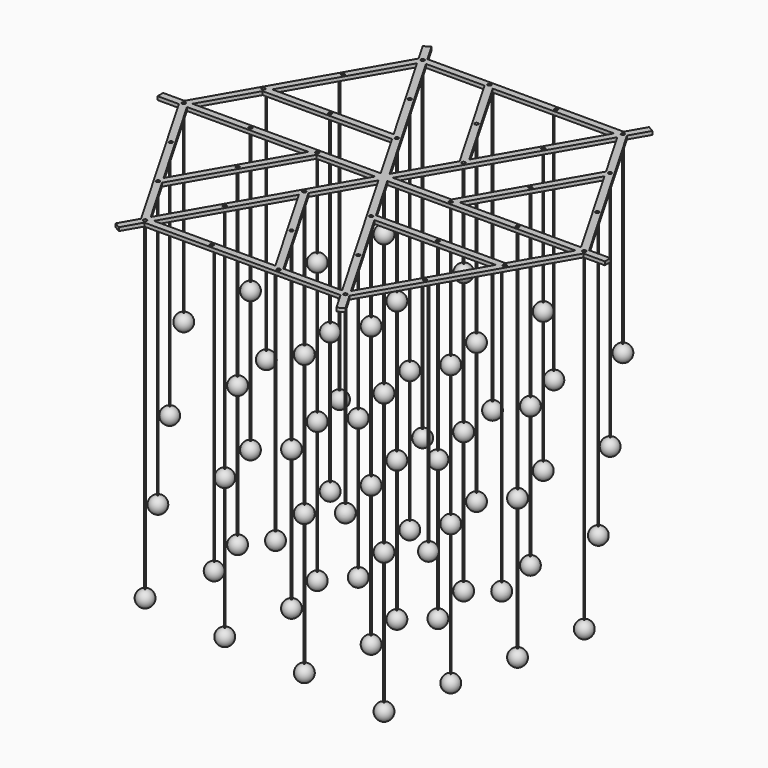
from build123d import *

# Parameters (mm, degrees)
CYLINDER_R               = 3
CYLINDER_DEPTH           = 2000
CYLINDER002_R            = 3
CYLINDER002_DEPTH        = 1800
GROUP005_PLACEMENT_ANGLE = 120
CYLINDER003_R            = 3
CYLINDER003_DEPTH        = 1800
GROUP007_PLACEMENT_ANGLE = 240
CYLINDER001_R            = 3
CYLINDER001_DEPTH        = 1800
CYLINDER005_R            = 3
CYLINDER005_DEPTH        = 1600
GROUP012_PLACEMENT_ANGLE = 180
CYLINDER006_R            = 3
CYLINDER006_DEPTH        = 1600
GROUP014_PLACEMENT_ANGLE = 60
CYLINDER004_R            = 3
CYLINDER004_DEPTH        = 1600
GROUP010_PLACEMENT_ANGLE = 60
CYLINDER008_R            = 3
CYLINDER008_DEPTH        = 1610
GROUP019_PLACEMENT_ANGLE = 120
CYLINDER009_R            = 3
CYLINDER009_DEPTH        = 1610
GROUP021_PLACEMENT_ANGLE = 240
CYLINDER007_R            = 3
CYLINDER007_DEPTH        = 1610
CYLINDER011_R            = 3
CYLINDER011_DEPTH        = 1200
GROUP026_PLACEMENT_ANGLE = 180
CYLINDER012_R            = 3
CYLINDER012_DEPTH        = 1200
GROUP028_PLACEMENT_ANGLE = 60
CYLINDER010_R            = 3
CYLINDER010_DEPTH        = 1200
GROUP024_PLACEMENT_ANGLE = 60
CYLINDER014_R            = 3
CYLINDER014_DEPTH        = 1410
GROUP033_PLACEMENT_ANGLE = 90
CYLINDER015_R            = 3
CYLINDER015_DEPTH        = 1410
GROUP035_PLACEMENT_ANGLE = 150
CYLINDER016_R            = 3
CYLINDER016_DEPTH        = 1410
GROUP037_PLACEMENT_ANGLE = 210
CYLINDER017_R            = 3
CYLINDER017_DEPTH        = 1410
GROUP039_PLACEMENT_ANGLE = 90
CYLINDER018_R            = 3
CYLINDER018_DEPTH        = 1410
GROUP041_PLACEMENT_ANGLE = 30
CYLINDER013_R            = 3
CYLINDER013_DEPTH        = 1410
GROUP031_PLACEMENT_ANGLE = 30
CYLINDER026_R            = 3
CYLINDER026_DEPTH        = 1210
GROUP051_PLACEMENT_ANGLE = 140
CYLINDER027_R            = 3
CYLINDER027_DEPTH        = 1010
GROUP052_PLACEMENT_ANGLE = 160
CYLINDER028_R            = 3
CYLINDER028_DEPTH        = 810
GROUP053_PLACEMENT_ANGLE = 180
CYLINDER029_R            = 3
CYLINDER029_DEPTH        = 1010
GROUP054_PLACEMENT_ANGLE = 200
CYLINDER030_R            = 3
CYLINDER030_DEPTH        = 1210
GROUP055_PLACEMENT_ANGLE = 220
CYLINDER025_R            = 3
CYLINDER025_DEPTH        = 1410
GROUP050_PLACEMENT_ANGLE = 120
CYLINDER032_R            = 3
CYLINDER032_DEPTH        = 1210
GROUP058_PLACEMENT_ANGLE = 100
CYLINDER033_R            = 3
CYLINDER033_DEPTH        = 1010
GROUP059_PLACEMENT_ANGLE = 80
CYLINDER034_R            = 3
CYLINDER034_DEPTH        = 810
GROUP060_PLACEMENT_ANGLE = 60
CYLINDER035_R            = 3
CYLINDER035_DEPTH        = 1010
GROUP061_PLACEMENT_ANGLE = 40
CYLINDER036_R            = 3
CYLINDER036_DEPTH        = 1210
GROUP062_PLACEMENT_ANGLE = 20
CYLINDER031_R            = 3
CYLINDER031_DEPTH        = 1410
GROUP057_PLACEMENT_ANGLE = 240
CYLINDER020_R            = 3
CYLINDER020_DEPTH        = 1210
GROUP044_PLACEMENT_ANGLE = 20
CYLINDER021_R            = 3
CYLINDER021_DEPTH        = 1010
GROUP045_PLACEMENT_ANGLE = 40
CYLINDER022_R            = 3
CYLINDER022_DEPTH        = 810
GROUP046_PLACEMENT_ANGLE = 60
CYLINDER023_R            = 3
CYLINDER023_DEPTH        = 1010
GROUP047_PLACEMENT_ANGLE = 80
CYLINDER024_R            = 3
CYLINDER024_DEPTH        = 1210
GROUP048_PLACEMENT_ANGLE = 100
CYLINDER019_R            = 3
CYLINDER019_DEPTH        = 1410
CUBE004_W                = 858
CUBE004_H                = 30
CUBE004_DEPTH            = 15
CUBE004_PLACEMENT_ANGLE  = 120
CUBE005_W                = 572
CUBE005_H                = 30
CUBE005_DEPTH            = 15
CUBE005_PLACEMENT_ANGLE  = 60
CUBE003_W                = 958
CUBE003_H                = 30
CUBE003_DEPTH            = 15
GROUP066_PLACEMENT_ANGLE = 60
CUBE007_W                = 858
CUBE007_H                = 30
CUBE007_DEPTH            = 15
CUBE007_PLACEMENT_ANGLE  = 120
CUBE008_W                = 572
CUBE008_H                = 30
CUBE008_DEPTH            = 15
CUBE008_PLACEMENT_ANGLE  = 60
CUBE006_W                = 958
CUBE006_H                = 30
CUBE006_DEPTH            = 15
GROUP067_PLACEMENT_ANGLE = 120
CUBE010_W                = 858
CUBE010_H                = 30
CUBE010_DEPTH            = 15
CUBE010_PLACEMENT_ANGLE  = 120
CUBE011_W                = 572
CUBE011_H                = 30
CUBE011_DEPTH            = 15
CUBE011_PLACEMENT_ANGLE  = 60
CUBE009_W                = 958
CUBE009_H                = 30
CUBE009_DEPTH            = 15
GROUP068_PLACEMENT_ANGLE = 180
CUBE013_W                = 858
CUBE013_H                = 30
CUBE013_DEPTH            = 15
CUBE013_PLACEMENT_ANGLE  = 120
CUBE014_W                = 572
CUBE014_H                = 30
CUBE014_DEPTH            = 15
CUBE014_PLACEMENT_ANGLE  = 60
CUBE012_W                = 958
CUBE012_H                = 30
CUBE012_DEPTH            = 15
GROUP069_PLACEMENT_ANGLE = 240
CUBE016_W                = 858
CUBE016_H                = 30
CUBE016_DEPTH            = 15
CUBE016_PLACEMENT_ANGLE  = 120
CUBE017_W                = 572
CUBE017_H                = 30
CUBE017_DEPTH            = 15
CUBE017_PLACEMENT_ANGLE  = 60
CUBE015_W                = 958
CUBE015_H                = 30
CUBE015_DEPTH            = 15
GROUP070_PLACEMENT_ANGLE = 60
CUBE001_W                = 858
CUBE001_H                = 30
CUBE001_DEPTH            = 15
CUBE001_PLACEMENT_ANGLE  = 120
CUBE002_W                = 572
CUBE002_H                = 30
CUBE002_DEPTH            = 15
CUBE002_PLACEMENT_ANGLE  = 60
CUBE_W                   = 958
CUBE_H                   = 30
CUBE_DEPTH               = 15
SKETCH_R                 = 7.5
POCKET_DEPTH             = 5104.039078
POLARPATTERN_COUNT       = 6


with BuildPart() as sphere001:
    # sphere001 → sphere001 (revolve)
    with BuildSketch(Plane(origin=(0, 0, -800), x_dir=(1, 0, 0), z_dir=(0, -1, 0))):
        with BuildLine():
            ThreePointArc((0, -35), (35, 0), (0, 35))
            Line((0, 35), (0, -35))
        make_face()
    revolve(axis=Axis((0, 0, -800), (0, 0, 1)))


with BuildPart() as sphere002:
    # sphere002 → sphere002 (revolve)
    with BuildSketch(Plane(origin=(0, 0, -1400), x_dir=(1, 0, 0), z_dir=(0, -1, 0))):
        with BuildLine():
            ThreePointArc((0, -35), (35, 0), (0, 35))
            Line((0, 35), (0, -35))
        make_face()
    revolve(axis=Axis((0, 0, -1400), (0, 0, 1)))


with BuildPart() as sphere003:
    # sphere003 → sphere003 (revolve)
    with BuildSketch(Plane(origin=(0, 0, -2000), x_dir=(1, 0, 0), z_dir=(0, -1, 0))):
        with BuildLine():
            ThreePointArc((0, -35), (35, 0), (0, 35))
            Line((0, 35), (0, -35))
        make_face()
    revolve(axis=Axis((0, 0, -2000), (0, 0, 1)))


with BuildPart() as group:
    # sphere → sphere (revolve)
    with BuildSketch(Plane(origin=(0, 0, -200), x_dir=(1, 0, 0), z_dir=(0, -1, 0))):
        with BuildLine():
            ThreePointArc((0, -35), (35, 0), (0, 35))
            Line((0, 35), (0, -35))
        make_face()
    revolve(axis=Axis((0, 0, -200), (0, 0, 1)))

    # Group: union sphere001, sphere002, sphere003
    add(sphere001.part)
    add(sphere002.part)
    add(sphere003.part)


with BuildPart() as group001:
    # cylinder → cylinder (new body)
    with BuildSketch(Plane.XY.offset(-2000)):
        Circle(CYLINDER_R)
    extrude(amount=CYLINDER_DEPTH)

    # Group001: union Group
    add(group.part)


with BuildPart() as sphere008:
    # sphere008 → sphere008 (revolve)
    with BuildSketch(Plane(origin=(0, 0, -1200), x_dir=(1, 0, 0), z_dir=(0, -1, 0))):
        with BuildLine():
            ThreePointArc((0, -35), (35, 0), (0, 35))
            Line((0, 35), (0, -35))
        make_face()
    revolve(axis=Axis((0, 0, -1200), (0, 0, 1)))


with BuildPart() as sphere009:
    # sphere009 → sphere009 (revolve)
    with BuildSketch(Plane(origin=(0, 0, -1800), x_dir=(1, 0, 0), z_dir=(0, -1, 0))):
        with BuildLine():
            ThreePointArc((0, -35), (35, 0), (0, 35))
            Line((0, 35), (0, -35))
        make_face()
    revolve(axis=Axis((0, 0, -1800), (0, 0, 1)))


with BuildPart() as group004:
    # sphere007 → sphere007 (revolve)
    with BuildSketch(Plane(origin=(0, 0, -600), x_dir=(1, 0, 0), z_dir=(0, -1, 0))):
        with BuildLine():
            ThreePointArc((0, -35), (35, 0), (0, 35))
            Line((0, 35), (0, -35))
        make_face()
    revolve(axis=Axis((0, 0, -600), (0, 0, 1)))

    # Group004: union sphere008, sphere009
    add(sphere008.part)
    add(sphere009.part)


with BuildPart() as group005:
    # cylinder002 → cylinder002 (new body)
    with BuildSketch(Plane.XY.offset(-1800)):
        Circle(CYLINDER002_R)
    extrude(amount=CYLINDER002_DEPTH)

    # Group005: union Group004
    add(group004.part)


with BuildPart() as group005_1:
    # Group005 placement: moved
    add(group005.part.moved(Location((-143, 247.683265, 0))).rotate(Axis((-143, 247.683265, 0), (0, 0, 1)), GROUP005_PLACEMENT_ANGLE))


with BuildPart() as sphere011:
    # sphere011 → sphere011 (revolve)
    with BuildSketch(Plane(origin=(0, 0, -1200), x_dir=(1, 0, 0), z_dir=(0, -1, 0))):
        with BuildLine():
            ThreePointArc((0, -35), (35, 0), (0, 35))
            Line((0, 35), (0, -35))
        make_face()
    revolve(axis=Axis((0, 0, -1200), (0, 0, 1)))


with BuildPart() as sphere012:
    # sphere012 → sphere012 (revolve)
    with BuildSketch(Plane(origin=(0, 0, -1800), x_dir=(1, 0, 0), z_dir=(0, -1, 0))):
        with BuildLine():
            ThreePointArc((0, -35), (35, 0), (0, 35))
            Line((0, 35), (0, -35))
        make_face()
    revolve(axis=Axis((0, 0, -1800), (0, 0, 1)))


with BuildPart() as group006:
    # sphere010 → sphere010 (revolve)
    with BuildSketch(Plane(origin=(0, 0, -600), x_dir=(1, 0, 0), z_dir=(0, -1, 0))):
        with BuildLine():
            ThreePointArc((0, -35), (35, 0), (0, 35))
            Line((0, 35), (0, -35))
        make_face()
    revolve(axis=Axis((0, 0, -600), (0, 0, 1)))

    # Group006: union sphere011, sphere012
    add(sphere011.part)
    add(sphere012.part)


with BuildPart() as group007:
    # cylinder003 → cylinder003 (new body)
    with BuildSketch(Plane.XY.offset(-1800)):
        Circle(CYLINDER003_R)
    extrude(amount=CYLINDER003_DEPTH)

    # Group007: union Group006
    add(group006.part)


with BuildPart() as group007_1:
    # Group007 placement: moved
    add(group007.part.moved(Location((-143, -247.683265, 0))).rotate(Axis((-143, -247.683265, 0), (0, 0, 1)), GROUP007_PLACEMENT_ANGLE))


with BuildPart() as sphere005:
    # sphere005 → sphere005 (revolve)
    with BuildSketch(Plane(origin=(0, 0, -1200), x_dir=(1, 0, 0), z_dir=(0, -1, 0))):
        with BuildLine():
            ThreePointArc((0, -35), (35, 0), (0, 35))
            Line((0, 35), (0, -35))
        make_face()
    revolve(axis=Axis((0, 0, -1200), (0, 0, 1)))


with BuildPart() as sphere006:
    # sphere006 → sphere006 (revolve)
    with BuildSketch(Plane(origin=(0, 0, -1800), x_dir=(1, 0, 0), z_dir=(0, -1, 0))):
        with BuildLine():
            ThreePointArc((0, -35), (35, 0), (0, 35))
            Line((0, 35), (0, -35))
        make_face()
    revolve(axis=Axis((0, 0, -1800), (0, 0, 1)))


with BuildPart() as group002:
    # sphere004 → sphere004 (revolve)
    with BuildSketch(Plane(origin=(0, 0, -600), x_dir=(1, 0, 0), z_dir=(0, -1, 0))):
        with BuildLine():
            ThreePointArc((0, -35), (35, 0), (0, 35))
            Line((0, 35), (0, -35))
        make_face()
    revolve(axis=Axis((0, 0, -600), (0, 0, 1)))

    # Group002: union sphere005, sphere006
    add(sphere005.part)
    add(sphere006.part)


with BuildPart() as group008:
    # cylinder001 → cylinder001 (new body)
    with BuildSketch(Plane.XY.offset(-1800)):
        Circle(CYLINDER001_R)
    extrude(amount=CYLINDER001_DEPTH)

    # Group003: union Group002
    add(group002.part)


with BuildPart() as group008_1:
    # Group003 placement: moved
    add(group008.part.moved(Location((286, 0, 0))))

    # Group008: union Group005, Group007
    add(group005_1.part)
    add(group007_1.part)


with BuildPart() as sphere017:
    # sphere017 → sphere017 (revolve)
    with BuildSketch(Plane(origin=(0, 0, -1000), x_dir=(1, 0, 0), z_dir=(0, -1, 0))):
        with BuildLine():
            ThreePointArc((0, -35), (35, 0), (0, 35))
            Line((0, 35), (0, -35))
        make_face()
    revolve(axis=Axis((0, 0, -1000), (0, 0, 1)))


with BuildPart() as sphere018:
    # sphere018 → sphere018 (revolve)
    with BuildSketch(Plane(origin=(0, 0, -1600), x_dir=(1, 0, 0), z_dir=(0, -1, 0))):
        with BuildLine():
            ThreePointArc((0, -35), (35, 0), (0, 35))
            Line((0, 35), (0, -35))
        make_face()
    revolve(axis=Axis((0, 0, -1600), (0, 0, 1)))


with BuildPart() as group011:
    # sphere016 → sphere016 (revolve)
    with BuildSketch(Plane(origin=(0, 0, -400), x_dir=(1, 0, 0), z_dir=(0, -1, 0))):
        with BuildLine():
            ThreePointArc((0, -35), (35, 0), (0, 35))
            Line((0, 35), (0, -35))
        make_face()
    revolve(axis=Axis((0, 0, -400), (0, 0, 1)))

    # Group011: union sphere017, sphere018
    add(sphere017.part)
    add(sphere018.part)


with BuildPart() as group012:
    # cylinder005 → cylinder005 (new body)
    with BuildSketch(Plane.XY.offset(-1600)):
        Circle(CYLINDER005_R)
    extrude(amount=CYLINDER005_DEPTH)

    # Group012: union Group011
    add(group011.part)


with BuildPart() as group012_1:
    # Group012 placement: moved
    add(group012.part.moved(Location((-286, 0, 0))).rotate(Axis((-286, 0, 0), (0, 0, 1)), GROUP012_PLACEMENT_ANGLE))


with BuildPart() as sphere020:
    # sphere020 → sphere020 (revolve)
    with BuildSketch(Plane(origin=(0, 0, -1000), x_dir=(1, 0, 0), z_dir=(0, -1, 0))):
        with BuildLine():
            ThreePointArc((0, -35), (35, 0), (0, 35))
            Line((0, 35), (0, -35))
        make_face()
    revolve(axis=Axis((0, 0, -1000), (0, 0, 1)))


with BuildPart() as sphere021:
    # sphere021 → sphere021 (revolve)
    with BuildSketch(Plane(origin=(0, 0, -1600), x_dir=(1, 0, 0), z_dir=(0, -1, 0))):
        with BuildLine():
            ThreePointArc((0, -35), (35, 0), (0, 35))
            Line((0, 35), (0, -35))
        make_face()
    revolve(axis=Axis((0, 0, -1600), (0, 0, 1)))


with BuildPart() as group013:
    # sphere019 → sphere019 (revolve)
    with BuildSketch(Plane(origin=(0, 0, -400), x_dir=(1, 0, 0), z_dir=(0, -1, 0))):
        with BuildLine():
            ThreePointArc((0, -35), (35, 0), (0, 35))
            Line((0, 35), (0, -35))
        make_face()
    revolve(axis=Axis((0, 0, -400), (0, 0, 1)))

    # Group013: union sphere020, sphere021
    add(sphere020.part)
    add(sphere021.part)


with BuildPart() as group014:
    # cylinder006 → cylinder006 (new body)
    with BuildSketch(Plane.XY.offset(-1600)):
        Circle(CYLINDER006_R)
    extrude(amount=CYLINDER006_DEPTH)

    # Group014: union Group013
    add(group013.part)


with BuildPart() as group014_1:
    # Group014 placement: moved
    add(group014.part.moved(Location((143, -247.683265, 0))).rotate(Axis((143, -247.683265, 0), (0, 0, -1)), GROUP014_PLACEMENT_ANGLE))


with BuildPart() as sphere014:
    # sphere014 → sphere014 (revolve)
    with BuildSketch(Plane(origin=(0, 0, -1000), x_dir=(1, 0, 0), z_dir=(0, -1, 0))):
        with BuildLine():
            ThreePointArc((0, -35), (35, 0), (0, 35))
            Line((0, 35), (0, -35))
        make_face()
    revolve(axis=Axis((0, 0, -1000), (0, 0, 1)))


with BuildPart() as sphere015:
    # sphere015 → sphere015 (revolve)
    with BuildSketch(Plane(origin=(0, 0, -1600), x_dir=(1, 0, 0), z_dir=(0, -1, 0))):
        with BuildLine():
            ThreePointArc((0, -35), (35, 0), (0, 35))
            Line((0, 35), (0, -35))
        make_face()
    revolve(axis=Axis((0, 0, -1600), (0, 0, 1)))


with BuildPart() as group009:
    # sphere013 → sphere013 (revolve)
    with BuildSketch(Plane(origin=(0, 0, -400), x_dir=(1, 0, 0), z_dir=(0, -1, 0))):
        with BuildLine():
            ThreePointArc((0, -35), (35, 0), (0, 35))
            Line((0, 35), (0, -35))
        make_face()
    revolve(axis=Axis((0, 0, -400), (0, 0, 1)))

    # Group009: union sphere014, sphere015
    add(sphere014.part)
    add(sphere015.part)


with BuildPart() as group015:
    # cylinder004 → cylinder004 (new body)
    with BuildSketch(Plane.XY.offset(-1600)):
        Circle(CYLINDER004_R)
    extrude(amount=CYLINDER004_DEPTH)

    # Group010: union Group009
    add(group009.part)


with BuildPart() as group015_1:
    # Group010 placement: moved
    add(group015.part.moved(Location((143, 247.683265, 0))).rotate(Axis((143, 247.683265, 0), (0, 0, 1)), GROUP010_PLACEMENT_ANGLE))

    # Group015: union Group012, Group014
    add(group012_1.part)
    add(group014_1.part)


with BuildPart() as sphere025:
    # sphere025 → sphere025 (revolve)
    with BuildSketch(Plane(origin=(0, 0, -1610), x_dir=(1, 0, 0), z_dir=(0, -1, 0))):
        with BuildLine():
            ThreePointArc((0, -35), (35, 0), (0, 35))
            Line((0, 35), (0, -35))
        make_face()
    revolve(axis=Axis((0, 0, -1610), (0, 0, 1)))


with BuildPart() as group018:
    # sphere024 → sphere024 (revolve)
    with BuildSketch(Plane(origin=(0, 0, -1010), x_dir=(1, 0, 0), z_dir=(0, -1, 0))):
        with BuildLine():
            ThreePointArc((0, -35), (35, 0), (0, 35))
            Line((0, 35), (0, -35))
        make_face()
    revolve(axis=Axis((0, 0, -1010), (0, 0, 1)))

    # Group018: union sphere025
    add(sphere025.part)


with BuildPart() as group019:
    # cylinder008 → cylinder008 (new body)
    with BuildSketch(Plane.XY.offset(-1610)):
        Circle(CYLINDER008_R)
    extrude(amount=CYLINDER008_DEPTH)

    # Group019: union Group018
    add(group018.part)


with BuildPart() as group019_1:
    # Group019 placement: moved
    add(group019.part.moved(Location((-286, 495.366531, 0))).rotate(Axis((-286, 495.366531, 0), (0, 0, 1)), GROUP019_PLACEMENT_ANGLE))


with BuildPart() as sphere027:
    # sphere027 → sphere027 (revolve)
    with BuildSketch(Plane(origin=(0, 0, -1610), x_dir=(1, 0, 0), z_dir=(0, -1, 0))):
        with BuildLine():
            ThreePointArc((0, -35), (35, 0), (0, 35))
            Line((0, 35), (0, -35))
        make_face()
    revolve(axis=Axis((0, 0, -1610), (0, 0, 1)))


with BuildPart() as group020:
    # sphere026 → sphere026 (revolve)
    with BuildSketch(Plane(origin=(0, 0, -1010), x_dir=(1, 0, 0), z_dir=(0, -1, 0))):
        with BuildLine():
            ThreePointArc((0, -35), (35, 0), (0, 35))
            Line((0, 35), (0, -35))
        make_face()
    revolve(axis=Axis((0, 0, -1010), (0, 0, 1)))

    # Group020: union sphere027
    add(sphere027.part)


with BuildPart() as group021:
    # cylinder009 → cylinder009 (new body)
    with BuildSketch(Plane.XY.offset(-1610)):
        Circle(CYLINDER009_R)
    extrude(amount=CYLINDER009_DEPTH)

    # Group021: union Group020
    add(group020.part)


with BuildPart() as group021_1:
    # Group021 placement: moved
    add(group021.part.moved(Location((-286, -495.366531, 0))).rotate(Axis((-286, -495.366531, 0), (0, 0, 1)), GROUP021_PLACEMENT_ANGLE))


with BuildPart() as sphere023:
    # sphere023 → sphere023 (revolve)
    with BuildSketch(Plane(origin=(0, 0, -1610), x_dir=(1, 0, 0), z_dir=(0, -1, 0))):
        with BuildLine():
            ThreePointArc((0, -35), (35, 0), (0, 35))
            Line((0, 35), (0, -35))
        make_face()
    revolve(axis=Axis((0, 0, -1610), (0, 0, 1)))


with BuildPart() as group016:
    # sphere022 → sphere022 (revolve)
    with BuildSketch(Plane(origin=(0, 0, -1010), x_dir=(1, 0, 0), z_dir=(0, -1, 0))):
        with BuildLine():
            ThreePointArc((0, -35), (35, 0), (0, 35))
            Line((0, 35), (0, -35))
        make_face()
    revolve(axis=Axis((0, 0, -1010), (0, 0, 1)))

    # Group016: union sphere023
    add(sphere023.part)


with BuildPart() as group022:
    # cylinder007 → cylinder007 (new body)
    with BuildSketch(Plane.XY.offset(-1610)):
        Circle(CYLINDER007_R)
    extrude(amount=CYLINDER007_DEPTH)

    # Group017: union Group016
    add(group016.part)


with BuildPart() as group022_1:
    # Group017 placement: moved
    add(group022.part.moved(Location((572, 0, 0))))

    # Group022: union Group019, Group021
    add(group019_1.part)
    add(group021_1.part)


with BuildPart() as sphere031:
    # sphere031 → sphere031 (revolve)
    with BuildSketch(Plane(origin=(0, 0, -1200), x_dir=(1, 0, 0), z_dir=(0, -1, 0))):
        with BuildLine():
            ThreePointArc((0, -35), (35, 0), (0, 35))
            Line((0, 35), (0, -35))
        make_face()
    revolve(axis=Axis((0, 0, -1200), (0, 0, 1)))


with BuildPart() as group025:
    # sphere030 → sphere030 (revolve)
    with BuildSketch(Plane(origin=(0, 0, -600), x_dir=(1, 0, 0), z_dir=(0, -1, 0))):
        with BuildLine():
            ThreePointArc((0, -35), (35, 0), (0, 35))
            Line((0, 35), (0, -35))
        make_face()
    revolve(axis=Axis((0, 0, -600), (0, 0, 1)))

    # Group025: union sphere031
    add(sphere031.part)


with BuildPart() as group026:
    # cylinder011 → cylinder011 (new body)
    with BuildSketch(Plane.XY.offset(-1200)):
        Circle(CYLINDER011_R)
    extrude(amount=CYLINDER011_DEPTH)

    # Group026: union Group025
    add(group025.part)


with BuildPart() as group026_1:
    # Group026 placement: moved
    add(group026.part.moved(Location((-572, 0, 0))).rotate(Axis((-572, 0, 0), (0, 0, 1)), GROUP026_PLACEMENT_ANGLE))


with BuildPart() as sphere033:
    # sphere033 → sphere033 (revolve)
    with BuildSketch(Plane(origin=(0, 0, -1200), x_dir=(1, 0, 0), z_dir=(0, -1, 0))):
        with BuildLine():
            ThreePointArc((0, -35), (35, 0), (0, 35))
            Line((0, 35), (0, -35))
        make_face()
    revolve(axis=Axis((0, 0, -1200), (0, 0, 1)))


with BuildPart() as group027:
    # sphere032 → sphere032 (revolve)
    with BuildSketch(Plane(origin=(0, 0, -600), x_dir=(1, 0, 0), z_dir=(0, -1, 0))):
        with BuildLine():
            ThreePointArc((0, -35), (35, 0), (0, 35))
            Line((0, 35), (0, -35))
        make_face()
    revolve(axis=Axis((0, 0, -600), (0, 0, 1)))

    # Group027: union sphere033
    add(sphere033.part)


with BuildPart() as group028:
    # cylinder012 → cylinder012 (new body)
    with BuildSketch(Plane.XY.offset(-1200)):
        Circle(CYLINDER012_R)
    extrude(amount=CYLINDER012_DEPTH)

    # Group028: union Group027
    add(group027.part)


with BuildPart() as group028_1:
    # Group028 placement: moved
    add(group028.part.moved(Location((286, -495.366531, 0))).rotate(Axis((286, -495.366531, 0), (0, 0, -1)), GROUP028_PLACEMENT_ANGLE))


with BuildPart() as sphere029:
    # sphere029 → sphere029 (revolve)
    with BuildSketch(Plane(origin=(0, 0, -1200), x_dir=(1, 0, 0), z_dir=(0, -1, 0))):
        with BuildLine():
            ThreePointArc((0, -35), (35, 0), (0, 35))
            Line((0, 35), (0, -35))
        make_face()
    revolve(axis=Axis((0, 0, -1200), (0, 0, 1)))


with BuildPart() as group023:
    # sphere028 → sphere028 (revolve)
    with BuildSketch(Plane(origin=(0, 0, -600), x_dir=(1, 0, 0), z_dir=(0, -1, 0))):
        with BuildLine():
            ThreePointArc((0, -35), (35, 0), (0, 35))
            Line((0, 35), (0, -35))
        make_face()
    revolve(axis=Axis((0, 0, -600), (0, 0, 1)))

    # Group023: union sphere029
    add(sphere029.part)


with BuildPart() as group029:
    # cylinder010 → cylinder010 (new body)
    with BuildSketch(Plane.XY.offset(-1200)):
        Circle(CYLINDER010_R)
    extrude(amount=CYLINDER010_DEPTH)

    # Group024: union Group023
    add(group023.part)


with BuildPart() as group029_1:
    # Group024 placement: moved
    add(group029.part.moved(Location((286, 495.366531, 0))).rotate(Axis((286, 495.366531, 0), (0, 0, 1)), GROUP024_PLACEMENT_ANGLE))

    # Group029: union Group026, Group028
    add(group026_1.part)
    add(group028_1.part)


with BuildPart() as sphere037:
    # sphere037 → sphere037 (revolve)
    with BuildSketch(Plane(origin=(0, 0, -1410), x_dir=(1, 0, 0), z_dir=(0, -1, 0))):
        with BuildLine():
            ThreePointArc((0, -35), (35, 0), (0, 35))
            Line((0, 35), (0, -35))
        make_face()
    revolve(axis=Axis((0, 0, -1410), (0, 0, 1)))


with BuildPart() as group032:
    # sphere036 → sphere036 (revolve)
    with BuildSketch(Plane(origin=(0, 0, -810), x_dir=(1, 0, 0), z_dir=(0, -1, 0))):
        with BuildLine():
            ThreePointArc((0, -35), (35, 0), (0, 35))
            Line((0, 35), (0, -35))
        make_face()
    revolve(axis=Axis((0, 0, -810), (0, 0, 1)))

    # Group032: union sphere037
    add(sphere037.part)


with BuildPart() as group033:
    # cylinder014 → cylinder014 (new body)
    with BuildSketch(Plane.XY.offset(-1410)):
        Circle(CYLINDER014_R)
    extrude(amount=CYLINDER014_DEPTH)

    # Group033: union Group032
    add(group032.part)


with BuildPart() as group033_1:
    # Group033 placement: moved
    add(group033.part.moved(Location((0, 495.367, 0))).rotate(Axis((0, 495.367, 0), (0, 0, 1)), GROUP033_PLACEMENT_ANGLE))


with BuildPart() as sphere039:
    # sphere039 → sphere039 (revolve)
    with BuildSketch(Plane(origin=(0, 0, -1410), x_dir=(1, 0, 0), z_dir=(0, -1, 0))):
        with BuildLine():
            ThreePointArc((0, -35), (35, 0), (0, 35))
            Line((0, 35), (0, -35))
        make_face()
    revolve(axis=Axis((0, 0, -1410), (0, 0, 1)))


with BuildPart() as group034:
    # sphere038 → sphere038 (revolve)
    with BuildSketch(Plane(origin=(0, 0, -810), x_dir=(1, 0, 0), z_dir=(0, -1, 0))):
        with BuildLine():
            ThreePointArc((0, -35), (35, 0), (0, 35))
            Line((0, 35), (0, -35))
        make_face()
    revolve(axis=Axis((0, 0, -810), (0, 0, 1)))

    # Group034: union sphere039
    add(sphere039.part)


with BuildPart() as group035:
    # cylinder015 → cylinder015 (new body)
    with BuildSketch(Plane.XY.offset(-1410)):
        Circle(CYLINDER015_R)
    extrude(amount=CYLINDER015_DEPTH)

    # Group035: union Group034
    add(group034.part)


with BuildPart() as group035_1:
    # Group035 placement: moved
    add(group035.part.moved(Location((-429.000406, 247.6835, 0))).rotate(Axis((-429.000406, 247.6835, 0), (0, 0, 1)), GROUP035_PLACEMENT_ANGLE))


with BuildPart() as sphere041:
    # sphere041 → sphere041 (revolve)
    with BuildSketch(Plane(origin=(0, 0, -1410), x_dir=(1, 0, 0), z_dir=(0, -1, 0))):
        with BuildLine():
            ThreePointArc((0, -35), (35, 0), (0, 35))
            Line((0, 35), (0, -35))
        make_face()
    revolve(axis=Axis((0, 0, -1410), (0, 0, 1)))


with BuildPart() as group036:
    # sphere040 → sphere040 (revolve)
    with BuildSketch(Plane(origin=(0, 0, -810), x_dir=(1, 0, 0), z_dir=(0, -1, 0))):
        with BuildLine():
            ThreePointArc((0, -35), (35, 0), (0, 35))
            Line((0, 35), (0, -35))
        make_face()
    revolve(axis=Axis((0, 0, -810), (0, 0, 1)))

    # Group036: union sphere041
    add(sphere041.part)


with BuildPart() as group037:
    # cylinder016 → cylinder016 (new body)
    with BuildSketch(Plane.XY.offset(-1410)):
        Circle(CYLINDER016_R)
    extrude(amount=CYLINDER016_DEPTH)

    # Group037: union Group036
    add(group036.part)


with BuildPart() as group037_1:
    # Group037 placement: moved
    add(group037.part.moved(Location((-429.000406, -247.6835, 0))).rotate(Axis((-429.000406, -247.6835, 0), (0, 0, 1)), GROUP037_PLACEMENT_ANGLE))


with BuildPart() as sphere043:
    # sphere043 → sphere043 (revolve)
    with BuildSketch(Plane(origin=(0, 0, -1410), x_dir=(1, 0, 0), z_dir=(0, -1, 0))):
        with BuildLine():
            ThreePointArc((0, -35), (35, 0), (0, 35))
            Line((0, 35), (0, -35))
        make_face()
    revolve(axis=Axis((0, 0, -1410), (0, 0, 1)))


with BuildPart() as group038:
    # sphere042 → sphere042 (revolve)
    with BuildSketch(Plane(origin=(0, 0, -810), x_dir=(1, 0, 0), z_dir=(0, -1, 0))):
        with BuildLine():
            ThreePointArc((0, -35), (35, 0), (0, 35))
            Line((0, 35), (0, -35))
        make_face()
    revolve(axis=Axis((0, 0, -810), (0, 0, 1)))

    # Group038: union sphere043
    add(sphere043.part)


with BuildPart() as group039:
    # cylinder017 → cylinder017 (new body)
    with BuildSketch(Plane.XY.offset(-1410)):
        Circle(CYLINDER017_R)
    extrude(amount=CYLINDER017_DEPTH)

    # Group039: union Group038
    add(group038.part)


with BuildPart() as group039_1:
    # Group039 placement: moved
    add(group039.part.moved(Location((0, -495.367, 0))).rotate(Axis((0, -495.367, 0), (0, 0, -1)), GROUP039_PLACEMENT_ANGLE))


with BuildPart() as sphere045:
    # sphere045 → sphere045 (revolve)
    with BuildSketch(Plane(origin=(0, 0, -1410), x_dir=(1, 0, 0), z_dir=(0, -1, 0))):
        with BuildLine():
            ThreePointArc((0, -35), (35, 0), (0, 35))
            Line((0, 35), (0, -35))
        make_face()
    revolve(axis=Axis((0, 0, -1410), (0, 0, 1)))


with BuildPart() as group040:
    # sphere044 → sphere044 (revolve)
    with BuildSketch(Plane(origin=(0, 0, -810), x_dir=(1, 0, 0), z_dir=(0, -1, 0))):
        with BuildLine():
            ThreePointArc((0, -35), (35, 0), (0, 35))
            Line((0, 35), (0, -35))
        make_face()
    revolve(axis=Axis((0, 0, -810), (0, 0, 1)))

    # Group040: union sphere045
    add(sphere045.part)


with BuildPart() as group041:
    # cylinder018 → cylinder018 (new body)
    with BuildSketch(Plane.XY.offset(-1410)):
        Circle(CYLINDER018_R)
    extrude(amount=CYLINDER018_DEPTH)

    # Group041: union Group040
    add(group040.part)


with BuildPart() as group041_1:
    # Group041 placement: moved
    add(group041.part.moved(Location((429.000406, -247.6835, 0))).rotate(Axis((429.000406, -247.6835, 0), (0, 0, -1)), GROUP041_PLACEMENT_ANGLE))


with BuildPart() as sphere035:
    # sphere035 → sphere035 (revolve)
    with BuildSketch(Plane(origin=(0, 0, -1410), x_dir=(1, 0, 0), z_dir=(0, -1, 0))):
        with BuildLine():
            ThreePointArc((0, -35), (35, 0), (0, 35))
            Line((0, 35), (0, -35))
        make_face()
    revolve(axis=Axis((0, 0, -1410), (0, 0, 1)))


with BuildPart() as group030:
    # sphere034 → sphere034 (revolve)
    with BuildSketch(Plane(origin=(0, 0, -810), x_dir=(1, 0, 0), z_dir=(0, -1, 0))):
        with BuildLine():
            ThreePointArc((0, -35), (35, 0), (0, 35))
            Line((0, 35), (0, -35))
        make_face()
    revolve(axis=Axis((0, 0, -810), (0, 0, 1)))

    # Group030: union sphere035
    add(sphere035.part)


with BuildPart() as group042:
    # cylinder013 → cylinder013 (new body)
    with BuildSketch(Plane.XY.offset(-1410)):
        Circle(CYLINDER013_R)
    extrude(amount=CYLINDER013_DEPTH)

    # Group031: union Group030
    add(group030.part)


with BuildPart() as group042_1:
    # Group031 placement: moved
    add(group042.part.moved(Location((429.000406, 247.6835, 0))).rotate(Axis((429.000406, 247.6835, 0), (0, 0, 1)), GROUP031_PLACEMENT_ANGLE))

    # Group042: union Group033, Group035, Group037, Group039, Group041
    add(group033_1.part)
    add(group035_1.part)
    add(group037_1.part)
    add(group039_1.part)
    add(group041_1.part)


with BuildPart() as sphere053:
    # sphere053 → sphere053 (revolve)
    with BuildSketch(Plane(origin=(0, 0, -1210), x_dir=(1, 0, 0), z_dir=(0, -1, 0))):
        with BuildLine():
            ThreePointArc((0, -35), (35, 0), (0, 35))
            Line((0, 35), (0, -35))
        make_face()
    revolve(axis=Axis((0, 0, -1210), (0, 0, 1)))


with BuildPart() as group051:
    # cylinder026 → cylinder026 (new body)
    with BuildSketch(Plane.XY.offset(-1210)):
        Circle(CYLINDER026_R)
    extrude(amount=CYLINDER026_DEPTH)

    # Group051: union sphere053
    add(sphere053.part)


with BuildPart() as group051_1:
    # Group051 placement: moved
    add(group051.part.moved(Location((-579.654339, 486.387742, 0))).rotate(Axis((-579.654339, 486.387742, 0), (0, 0, 1)), GROUP051_PLACEMENT_ANGLE))


with BuildPart() as sphere054:
    # sphere054 → sphere054 (revolve)
    with BuildSketch(Plane(origin=(0, 0, -1010), x_dir=(1, 0, 0), z_dir=(0, -1, 0))):
        with BuildLine():
            ThreePointArc((0, -35), (35, 0), (0, 35))
            Line((0, 35), (0, -35))
        make_face()
    revolve(axis=Axis((0, 0, -1010), (0, 0, 1)))


with BuildPart() as group052:
    # cylinder027 → cylinder027 (new body)
    with BuildSketch(Plane.XY.offset(-1010)):
        Circle(CYLINDER027_R)
    extrude(amount=CYLINDER027_DEPTH)

    # Group052: union sphere054
    add(sphere054.part)


with BuildPart() as group052_1:
    # Group052 placement: moved
    add(group052.part.moved(Location((-711.051311, 258.801512, 0))).rotate(Axis((-711.051311, 258.801512, 0), (0, 0, 1)), GROUP052_PLACEMENT_ANGLE))


with BuildPart() as sphere055:
    # sphere055 → sphere055 (revolve)
    with BuildSketch(Plane(origin=(0, 0, -810), x_dir=(1, 0, 0), z_dir=(0, -1, 0))):
        with BuildLine():
            ThreePointArc((0, -35), (35, 0), (0, 35))
            Line((0, 35), (0, -35))
        make_face()
    revolve(axis=Axis((0, 0, -810), (0, 0, 1)))


with BuildPart() as group053:
    # cylinder028 → cylinder028 (new body)
    with BuildSketch(Plane.XY.offset(-810)):
        Circle(CYLINDER028_R)
    extrude(amount=CYLINDER028_DEPTH)

    # Group053: union sphere055
    add(sphere055.part)


with BuildPart() as group053_1:
    # Group053 placement: moved
    add(group053.part.moved(Location((-858, 0, 0))).rotate(Axis((-858, 0, 0), (0, 0, 1)), GROUP053_PLACEMENT_ANGLE))


with BuildPart() as sphere056:
    # sphere056 → sphere056 (revolve)
    with BuildSketch(Plane(origin=(0, 0, -1010), x_dir=(1, 0, 0), z_dir=(0, -1, 0))):
        with BuildLine():
            ThreePointArc((0, -35), (35, 0), (0, 35))
            Line((0, 35), (0, -35))
        make_face()
    revolve(axis=Axis((0, 0, -1010), (0, 0, 1)))


with BuildPart() as group054:
    # cylinder029 → cylinder029 (new body)
    with BuildSketch(Plane.XY.offset(-1010)):
        Circle(CYLINDER029_R)
    extrude(amount=CYLINDER029_DEPTH)

    # Group054: union sphere056
    add(sphere056.part)


with BuildPart() as group054_1:
    # Group054 placement: moved
    add(group054.part.moved(Location((-711.051311, -258.801512, 0))).rotate(Axis((-711.051311, -258.801512, 0), (0, 0, 1)), GROUP054_PLACEMENT_ANGLE))


with BuildPart() as sphere057:
    # sphere057 → sphere057 (revolve)
    with BuildSketch(Plane(origin=(0, 0, -1210), x_dir=(1, 0, 0), z_dir=(0, -1, 0))):
        with BuildLine():
            ThreePointArc((0, -35), (35, 0), (0, 35))
            Line((0, 35), (0, -35))
        make_face()
    revolve(axis=Axis((0, 0, -1210), (0, 0, 1)))


with BuildPart() as group055:
    # cylinder030 → cylinder030 (new body)
    with BuildSketch(Plane.XY.offset(-1210)):
        Circle(CYLINDER030_R)
    extrude(amount=CYLINDER030_DEPTH)

    # Group055: union sphere057
    add(sphere057.part)


with BuildPart() as group055_1:
    # Group055 placement: moved
    add(group055.part.moved(Location((-579.654339, -486.387742, 0))).rotate(Axis((-579.654339, -486.387742, 0), (0, 0, 1)), GROUP055_PLACEMENT_ANGLE))


with BuildPart() as sphere052:
    # sphere052 → sphere052 (revolve)
    with BuildSketch(Plane(origin=(0, 0, -1410), x_dir=(1, 0, 0), z_dir=(0, -1, 0))):
        with BuildLine():
            ThreePointArc((0, -35), (35, 0), (0, 35))
            Line((0, 35), (0, -35))
        make_face()
    revolve(axis=Axis((0, 0, -1410), (0, 0, 1)))


with BuildPart() as group056:
    # cylinder025 → cylinder025 (new body)
    with BuildSketch(Plane.XY.offset(-1410)):
        Circle(CYLINDER025_R)
    extrude(amount=CYLINDER025_DEPTH)

    # Group050: union sphere052
    add(sphere052.part)


with BuildPart() as group056_1:
    # Group050 placement: moved
    add(group056.part.moved(Location((-429, 743.049796, 0))).rotate(Axis((-429, 743.049796, 0), (0, 0, 1)), GROUP050_PLACEMENT_ANGLE))

    # Group056: union Group051, Group052, Group053, Group054, Group055
    add(group051_1.part)
    add(group052_1.part)
    add(group053_1.part)
    add(group054_1.part)
    add(group055_1.part)


with BuildPart() as sphere059:
    # sphere059 → sphere059 (revolve)
    with BuildSketch(Plane(origin=(0, 0, -1210), x_dir=(1, 0, 0), z_dir=(0, -1, 0))):
        with BuildLine():
            ThreePointArc((0, -35), (35, 0), (0, 35))
            Line((0, 35), (0, -35))
        make_face()
    revolve(axis=Axis((0, 0, -1210), (0, 0, 1)))


with BuildPart() as group058:
    # cylinder032 → cylinder032 (new body)
    with BuildSketch(Plane.XY.offset(-1210)):
        Circle(CYLINDER032_R)
    extrude(amount=CYLINDER032_DEPTH)

    # Group058: union sphere059
    add(sphere059.part)


with BuildPart() as group058_1:
    # Group058 placement: moved
    add(group058.part.moved(Location((-131.396971, -745.189255, 0))).rotate(Axis((-131.396971, -745.189255, 0), (0, 0, -1)), GROUP058_PLACEMENT_ANGLE))


with BuildPart() as sphere060:
    # sphere060 → sphere060 (revolve)
    with BuildSketch(Plane(origin=(0, 0, -1010), x_dir=(1, 0, 0), z_dir=(0, -1, 0))):
        with BuildLine():
            ThreePointArc((0, -35), (35, 0), (0, 35))
            Line((0, 35), (0, -35))
        make_face()
    revolve(axis=Axis((0, 0, -1010), (0, 0, 1)))


with BuildPart() as group059:
    # cylinder033 → cylinder033 (new body)
    with BuildSketch(Plane.XY.offset(-1010)):
        Circle(CYLINDER033_R)
    extrude(amount=CYLINDER033_DEPTH)

    # Group059: union sphere060
    add(sphere060.part)


with BuildPart() as group059_1:
    # Group059 placement: moved
    add(group059.part.moved(Location((131.396971, -745.189255, 0))).rotate(Axis((131.396971, -745.189255, 0), (0, 0, -1)), GROUP059_PLACEMENT_ANGLE))


with BuildPart() as sphere061:
    # sphere061 → sphere061 (revolve)
    with BuildSketch(Plane(origin=(0, 0, -810), x_dir=(1, 0, 0), z_dir=(0, -1, 0))):
        with BuildLine():
            ThreePointArc((0, -35), (35, 0), (0, 35))
            Line((0, 35), (0, -35))
        make_face()
    revolve(axis=Axis((0, 0, -810), (0, 0, 1)))


with BuildPart() as group060:
    # cylinder034 → cylinder034 (new body)
    with BuildSketch(Plane.XY.offset(-810)):
        Circle(CYLINDER034_R)
    extrude(amount=CYLINDER034_DEPTH)

    # Group060: union sphere061
    add(sphere061.part)


with BuildPart() as group060_1:
    # Group060 placement: moved
    add(group060.part.moved(Location((429, -743.049796, 0))).rotate(Axis((429, -743.049796, 0), (0, 0, -1)), GROUP060_PLACEMENT_ANGLE))


with BuildPart() as sphere062:
    # sphere062 → sphere062 (revolve)
    with BuildSketch(Plane(origin=(0, 0, -1010), x_dir=(1, 0, 0), z_dir=(0, -1, 0))):
        with BuildLine():
            ThreePointArc((0, -35), (35, 0), (0, 35))
            Line((0, 35), (0, -35))
        make_face()
    revolve(axis=Axis((0, 0, -1010), (0, 0, 1)))


with BuildPart() as group061:
    # cylinder035 → cylinder035 (new body)
    with BuildSketch(Plane.XY.offset(-1010)):
        Circle(CYLINDER035_R)
    extrude(amount=CYLINDER035_DEPTH)

    # Group061: union sphere062
    add(sphere062.part)


with BuildPart() as group061_1:
    # Group061 placement: moved
    add(group061.part.moved(Location((579.654339, -486.387742, 0))).rotate(Axis((579.654339, -486.387742, 0), (0, 0, -1)), GROUP061_PLACEMENT_ANGLE))


with BuildPart() as sphere063:
    # sphere063 → sphere063 (revolve)
    with BuildSketch(Plane(origin=(0, 0, -1210), x_dir=(1, 0, 0), z_dir=(0, -1, 0))):
        with BuildLine():
            ThreePointArc((0, -35), (35, 0), (0, 35))
            Line((0, 35), (0, -35))
        make_face()
    revolve(axis=Axis((0, 0, -1210), (0, 0, 1)))


with BuildPart() as group062:
    # cylinder036 → cylinder036 (new body)
    with BuildSketch(Plane.XY.offset(-1210)):
        Circle(CYLINDER036_R)
    extrude(amount=CYLINDER036_DEPTH)

    # Group062: union sphere063
    add(sphere063.part)


with BuildPart() as group062_1:
    # Group062 placement: moved
    add(group062.part.moved(Location((711.051311, -258.801512, 0))).rotate(Axis((711.051311, -258.801512, 0), (0, 0, -1)), GROUP062_PLACEMENT_ANGLE))


with BuildPart() as sphere058:
    # sphere058 → sphere058 (revolve)
    with BuildSketch(Plane(origin=(0, 0, -1410), x_dir=(1, 0, 0), z_dir=(0, -1, 0))):
        with BuildLine():
            ThreePointArc((0, -35), (35, 0), (0, 35))
            Line((0, 35), (0, -35))
        make_face()
    revolve(axis=Axis((0, 0, -1410), (0, 0, 1)))


with BuildPart() as group063:
    # cylinder031 → cylinder031 (new body)
    with BuildSketch(Plane.XY.offset(-1410)):
        Circle(CYLINDER031_R)
    extrude(amount=CYLINDER031_DEPTH)

    # Group057: union sphere058
    add(sphere058.part)


with BuildPart() as group063_1:
    # Group057 placement: moved
    add(group063.part.moved(Location((-429, -743.049796, 0))).rotate(Axis((-429, -743.049796, 0), (0, 0, 1)), GROUP057_PLACEMENT_ANGLE))

    # Group063: union Group058, Group059, Group060, Group061, Group062
    add(group058_1.part)
    add(group059_1.part)
    add(group060_1.part)
    add(group061_1.part)
    add(group062_1.part)


with BuildPart() as sphere047:
    # sphere047 → sphere047 (revolve)
    with BuildSketch(Plane(origin=(0, 0, -1210), x_dir=(1, 0, 0), z_dir=(0, -1, 0))):
        with BuildLine():
            ThreePointArc((0, -35), (35, 0), (0, 35))
            Line((0, 35), (0, -35))
        make_face()
    revolve(axis=Axis((0, 0, -1210), (0, 0, 1)))


with BuildPart() as group044:
    # cylinder020 → cylinder020 (new body)
    with BuildSketch(Plane.XY.offset(-1210)):
        Circle(CYLINDER020_R)
    extrude(amount=CYLINDER020_DEPTH)

    # Group044: union sphere047
    add(sphere047.part)


with BuildPart() as group044_1:
    # Group044 placement: moved
    add(group044.part.moved(Location((711.051311, 258.801512, 0))).rotate(Axis((711.051311, 258.801512, 0), (0, 0, 1)), GROUP044_PLACEMENT_ANGLE))


with BuildPart() as sphere048:
    # sphere048 → sphere048 (revolve)
    with BuildSketch(Plane(origin=(0, 0, -1010), x_dir=(1, 0, 0), z_dir=(0, -1, 0))):
        with BuildLine():
            ThreePointArc((0, -35), (35, 0), (0, 35))
            Line((0, 35), (0, -35))
        make_face()
    revolve(axis=Axis((0, 0, -1010), (0, 0, 1)))


with BuildPart() as group045:
    # cylinder021 → cylinder021 (new body)
    with BuildSketch(Plane.XY.offset(-1010)):
        Circle(CYLINDER021_R)
    extrude(amount=CYLINDER021_DEPTH)

    # Group045: union sphere048
    add(sphere048.part)


with BuildPart() as group045_1:
    # Group045 placement: moved
    add(group045.part.moved(Location((579.654339, 486.387742, 0))).rotate(Axis((579.654339, 486.387742, 0), (0, 0, 1)), GROUP045_PLACEMENT_ANGLE))


with BuildPart() as sphere049:
    # sphere049 → sphere049 (revolve)
    with BuildSketch(Plane(origin=(0, 0, -810), x_dir=(1, 0, 0), z_dir=(0, -1, 0))):
        with BuildLine():
            ThreePointArc((0, -35), (35, 0), (0, 35))
            Line((0, 35), (0, -35))
        make_face()
    revolve(axis=Axis((0, 0, -810), (0, 0, 1)))


with BuildPart() as group046:
    # cylinder022 → cylinder022 (new body)
    with BuildSketch(Plane.XY.offset(-810)):
        Circle(CYLINDER022_R)
    extrude(amount=CYLINDER022_DEPTH)

    # Group046: union sphere049
    add(sphere049.part)


with BuildPart() as group046_1:
    # Group046 placement: moved
    add(group046.part.moved(Location((429, 743.049796, 0))).rotate(Axis((429, 743.049796, 0), (0, 0, 1)), GROUP046_PLACEMENT_ANGLE))


with BuildPart() as sphere050:
    # sphere050 → sphere050 (revolve)
    with BuildSketch(Plane(origin=(0, 0, -1010), x_dir=(1, 0, 0), z_dir=(0, -1, 0))):
        with BuildLine():
            ThreePointArc((0, -35), (35, 0), (0, 35))
            Line((0, 35), (0, -35))
        make_face()
    revolve(axis=Axis((0, 0, -1010), (0, 0, 1)))


with BuildPart() as group047:
    # cylinder023 → cylinder023 (new body)
    with BuildSketch(Plane.XY.offset(-1010)):
        Circle(CYLINDER023_R)
    extrude(amount=CYLINDER023_DEPTH)

    # Group047: union sphere050
    add(sphere050.part)


with BuildPart() as group047_1:
    # Group047 placement: moved
    add(group047.part.moved(Location((131.396971, 745.189255, 0))).rotate(Axis((131.396971, 745.189255, 0), (0, 0, 1)), GROUP047_PLACEMENT_ANGLE))


with BuildPart() as sphere051:
    # sphere051 → sphere051 (revolve)
    with BuildSketch(Plane(origin=(0, 0, -1210), x_dir=(1, 0, 0), z_dir=(0, -1, 0))):
        with BuildLine():
            ThreePointArc((0, -35), (35, 0), (0, 35))
            Line((0, 35), (0, -35))
        make_face()
    revolve(axis=Axis((0, 0, -1210), (0, 0, 1)))


with BuildPart() as group048:
    # cylinder024 → cylinder024 (new body)
    with BuildSketch(Plane.XY.offset(-1210)):
        Circle(CYLINDER024_R)
    extrude(amount=CYLINDER024_DEPTH)

    # Group048: union sphere051
    add(sphere051.part)


with BuildPart() as group048_1:
    # Group048 placement: moved
    add(group048.part.moved(Location((-131.396971, 745.189255, 0))).rotate(Axis((-131.396971, 745.189255, 0), (0, 0, 1)), GROUP048_PLACEMENT_ANGLE))


with BuildPart() as sphere046:
    # sphere046 → sphere046 (revolve)
    with BuildSketch(Plane(origin=(0, 0, -1410), x_dir=(1, 0, 0), z_dir=(0, -1, 0))):
        with BuildLine():
            ThreePointArc((0, -35), (35, 0), (0, 35))
            Line((0, 35), (0, -35))
        make_face()
    revolve(axis=Axis((0, 0, -1410), (0, 0, 1)))


with BuildPart() as group064:
    # cylinder019 → cylinder019 (new body)
    with BuildSketch(Plane.XY.offset(-1410)):
        Circle(CYLINDER019_R)
    extrude(amount=CYLINDER019_DEPTH)

    # Group043: union sphere046
    add(sphere046.part)


with BuildPart() as group064_1:
    # Group043 placement: moved
    add(group064.part.moved(Location((858, 0, 0))))

    # Group049: union Group044, Group045, Group046, Group047, Group048
    add(group044_1.part)
    add(group045_1.part)
    add(group046_1.part)
    add(group047_1.part)
    add(group048_1.part)

    # Group064: union Group056, Group063
    add(group056_1.part)
    add(group063_1.part)


with BuildPart() as cube004:
    # cube004 → cube004 (new body)
    with BuildSketch(Plane.XY):
        with Locations((429, 15)):
            Rectangle(CUBE004_W, CUBE004_H)
    extrude(amount=CUBE004_DEPTH)


with BuildPart() as cube004_1:
    # cube004 placement: moved
    add(cube004.part.moved(Location((870.990381, 7.5, 0))).rotate(Axis((870.990381, 7.5, 0), (0, 0, 1)), CUBE004_PLACEMENT_ANGLE))


with BuildPart() as cube005:
    # cube005 → cube005 (new body)
    with BuildSketch(Plane.XY):
        with Locations((286, 15)):
            Rectangle(CUBE005_W, CUBE005_H)
    extrude(amount=CUBE005_DEPTH)


with BuildPart() as cube005_1:
    # cube005 placement: moved
    add(cube005.part.moved(Location((298.990381, -7.5, 0))).rotate(Axis((298.990381, -7.5, 0), (0, 0, 1)), CUBE005_PLACEMENT_ANGLE))


with BuildPart() as group066:
    # cube003 → cube003 (new body)
    with BuildSketch(Plane(origin=(0, -15, 0), x_dir=(1, 0, 0), z_dir=(0, 0, 1))):
        with Locations((479, 15)):
            Rectangle(CUBE003_W, CUBE003_H)
    extrude(amount=CUBE003_DEPTH)

    # Group066: union cube004, cube005
    add(cube004_1.part)
    add(cube005_1.part)


with BuildPart() as group066_1:
    # Group066 placement: moved
    add(group066.part.rotate(Axis((0, 0, 0), (0, 0, 1)), GROUP066_PLACEMENT_ANGLE))


with BuildPart() as cube007:
    # cube007 → cube007 (new body)
    with BuildSketch(Plane.XY):
        with Locations((429, 15)):
            Rectangle(CUBE007_W, CUBE007_H)
    extrude(amount=CUBE007_DEPTH)


with BuildPart() as cube007_1:
    # cube007 placement: moved
    add(cube007.part.moved(Location((870.990381, 7.5, 0))).rotate(Axis((870.990381, 7.5, 0), (0, 0, 1)), CUBE007_PLACEMENT_ANGLE))


with BuildPart() as cube008:
    # cube008 → cube008 (new body)
    with BuildSketch(Plane.XY):
        with Locations((286, 15)):
            Rectangle(CUBE008_W, CUBE008_H)
    extrude(amount=CUBE008_DEPTH)


with BuildPart() as cube008_1:
    # cube008 placement: moved
    add(cube008.part.moved(Location((298.990381, -7.5, 0))).rotate(Axis((298.990381, -7.5, 0), (0, 0, 1)), CUBE008_PLACEMENT_ANGLE))


with BuildPart() as group067:
    # cube006 → cube006 (new body)
    with BuildSketch(Plane(origin=(0, -15, 0), x_dir=(1, 0, 0), z_dir=(0, 0, 1))):
        with Locations((479, 15)):
            Rectangle(CUBE006_W, CUBE006_H)
    extrude(amount=CUBE006_DEPTH)

    # Group067: union cube007, cube008
    add(cube007_1.part)
    add(cube008_1.part)


with BuildPart() as group067_1:
    # Group067 placement: moved
    add(group067.part.rotate(Axis((0, 0, 0), (0, 0, 1)), GROUP067_PLACEMENT_ANGLE))


with BuildPart() as cube010:
    # cube010 → cube010 (new body)
    with BuildSketch(Plane.XY):
        with Locations((429, 15)):
            Rectangle(CUBE010_W, CUBE010_H)
    extrude(amount=CUBE010_DEPTH)


with BuildPart() as cube010_1:
    # cube010 placement: moved
    add(cube010.part.moved(Location((870.990381, 7.5, 0))).rotate(Axis((870.990381, 7.5, 0), (0, 0, 1)), CUBE010_PLACEMENT_ANGLE))


with BuildPart() as cube011:
    # cube011 → cube011 (new body)
    with BuildSketch(Plane.XY):
        with Locations((286, 15)):
            Rectangle(CUBE011_W, CUBE011_H)
    extrude(amount=CUBE011_DEPTH)


with BuildPart() as cube011_1:
    # cube011 placement: moved
    add(cube011.part.moved(Location((298.990381, -7.5, 0))).rotate(Axis((298.990381, -7.5, 0), (0, 0, 1)), CUBE011_PLACEMENT_ANGLE))


with BuildPart() as group068:
    # cube009 → cube009 (new body)
    with BuildSketch(Plane(origin=(0, -15, 0), x_dir=(1, 0, 0), z_dir=(0, 0, 1))):
        with Locations((479, 15)):
            Rectangle(CUBE009_W, CUBE009_H)
    extrude(amount=CUBE009_DEPTH)

    # Group068: union cube010, cube011
    add(cube010_1.part)
    add(cube011_1.part)


with BuildPart() as group068_1:
    # Group068 placement: moved
    add(group068.part.rotate(Axis((0, 0, 0), (0, 0, 1)), GROUP068_PLACEMENT_ANGLE))


with BuildPart() as cube013:
    # cube013 → cube013 (new body)
    with BuildSketch(Plane.XY):
        with Locations((429, 15)):
            Rectangle(CUBE013_W, CUBE013_H)
    extrude(amount=CUBE013_DEPTH)


with BuildPart() as cube013_1:
    # cube013 placement: moved
    add(cube013.part.moved(Location((870.990381, 7.5, 0))).rotate(Axis((870.990381, 7.5, 0), (0, 0, 1)), CUBE013_PLACEMENT_ANGLE))


with BuildPart() as cube014:
    # cube014 → cube014 (new body)
    with BuildSketch(Plane.XY):
        with Locations((286, 15)):
            Rectangle(CUBE014_W, CUBE014_H)
    extrude(amount=CUBE014_DEPTH)


with BuildPart() as cube014_1:
    # cube014 placement: moved
    add(cube014.part.moved(Location((298.990381, -7.5, 0))).rotate(Axis((298.990381, -7.5, 0), (0, 0, 1)), CUBE014_PLACEMENT_ANGLE))


with BuildPart() as group069:
    # cube012 → cube012 (new body)
    with BuildSketch(Plane(origin=(0, -15, 0), x_dir=(1, 0, 0), z_dir=(0, 0, 1))):
        with Locations((479, 15)):
            Rectangle(CUBE012_W, CUBE012_H)
    extrude(amount=CUBE012_DEPTH)

    # Group069: union cube013, cube014
    add(cube013_1.part)
    add(cube014_1.part)


with BuildPart() as group069_1:
    # Group069 placement: moved
    add(group069.part.rotate(Axis((0, 0, 0), (0, 0, 1)), GROUP069_PLACEMENT_ANGLE))


with BuildPart() as cube016:
    # cube016 → cube016 (new body)
    with BuildSketch(Plane.XY):
        with Locations((429, 15)):
            Rectangle(CUBE016_W, CUBE016_H)
    extrude(amount=CUBE016_DEPTH)


with BuildPart() as cube016_1:
    # cube016 placement: moved
    add(cube016.part.moved(Location((870.990381, 7.5, 0))).rotate(Axis((870.990381, 7.5, 0), (0, 0, 1)), CUBE016_PLACEMENT_ANGLE))


with BuildPart() as cube017:
    # cube017 → cube017 (new body)
    with BuildSketch(Plane.XY):
        with Locations((286, 15)):
            Rectangle(CUBE017_W, CUBE017_H)
    extrude(amount=CUBE017_DEPTH)


with BuildPart() as cube017_1:
    # cube017 placement: moved
    add(cube017.part.moved(Location((298.990381, -7.5, 0))).rotate(Axis((298.990381, -7.5, 0), (0, 0, 1)), CUBE017_PLACEMENT_ANGLE))


with BuildPart() as group070:
    # cube015 → cube015 (new body)
    with BuildSketch(Plane(origin=(0, -15, 0), x_dir=(1, 0, 0), z_dir=(0, 0, 1))):
        with Locations((479, 15)):
            Rectangle(CUBE015_W, CUBE015_H)
    extrude(amount=CUBE015_DEPTH)

    # Group070: union cube016, cube017
    add(cube016_1.part)
    add(cube017_1.part)


with BuildPart() as group070_1:
    # Group070 placement: moved
    add(group070.part.rotate(Axis((0, 0, 0), (0, 0, -1)), GROUP070_PLACEMENT_ANGLE))


with BuildPart() as cube001:
    # cube001 → cube001 (new body)
    with BuildSketch(Plane.XY):
        with Locations((429, 15)):
            Rectangle(CUBE001_W, CUBE001_H)
    extrude(amount=CUBE001_DEPTH)


with BuildPart() as cube001_1:
    # cube001 placement: moved
    add(cube001.part.moved(Location((870.990381, 7.5, 0))).rotate(Axis((870.990381, 7.5, 0), (0, 0, 1)), CUBE001_PLACEMENT_ANGLE))


with BuildPart() as cube002:
    # cube002 → cube002 (new body)
    with BuildSketch(Plane.XY):
        with Locations((286, 15)):
            Rectangle(CUBE002_W, CUBE002_H)
    extrude(amount=CUBE002_DEPTH)


with BuildPart() as cube002_1:
    # cube002 placement: moved
    add(cube002.part.moved(Location((298.990381, -7.5, 0))).rotate(Axis((298.990381, -7.5, 0), (0, 0, 1)), CUBE002_PLACEMENT_ANGLE))


with BuildPart() as body:
    # cube → cube (new body)
    with BuildSketch(Plane(origin=(0, -15, 0), x_dir=(1, 0, 0), z_dir=(0, 0, 1))):
        with Locations((479, 15)):
            Rectangle(CUBE_W, CUBE_H)
    extrude(amount=CUBE_DEPTH)

    # Group065: union cube001, cube002
    add(cube001_1.part)
    add(cube002_1.part)

    # Group071: union Group066, Group067, Group068, Group069, Group070
    add(group066_1.part)
    add(group067_1.part)
    add(group068_1.part)
    add(group069_1.part)
    add(group070_1.part)

    # Sketch (on Face34 of BaseFeature) → Pocket (cut, through all)
    with BuildSketch(Plane.XY.offset(15)):
        with Locations((-858, 0)):
            Circle(SKETCH_R)
        with Locations((-286, 0)):
            Circle(SKETCH_R)
        with Locations((-572, 0)):
            Circle(SKETCH_R)
        with Locations((-429, -247.683265)):
            Circle(SKETCH_R)
        with Locations((-715, -247.683265)):
            Circle(SKETCH_R)
        with Locations((-572, -495.366531)):
            Circle(SKETCH_R)
    pocket = extrude(amount=-POCKET_DEPTH, mode=Mode.SUBTRACT)

    # PolarPattern: Pocket ×6 about axis
    polarpattern_axis = Axis((0, 0, 15), (0, 0, 1))
    for i in range(1, POLARPATTERN_COUNT):
        add(pocket.rotate(polarpattern_axis, i * 360 / POLARPATTERN_COUNT), mode=Mode.SUBTRACT)


solid = Compound([group001.part, group008_1.part, group015_1.part, group022_1.part, group029_1.part, group042_1.part, group064_1.part, body.part])
